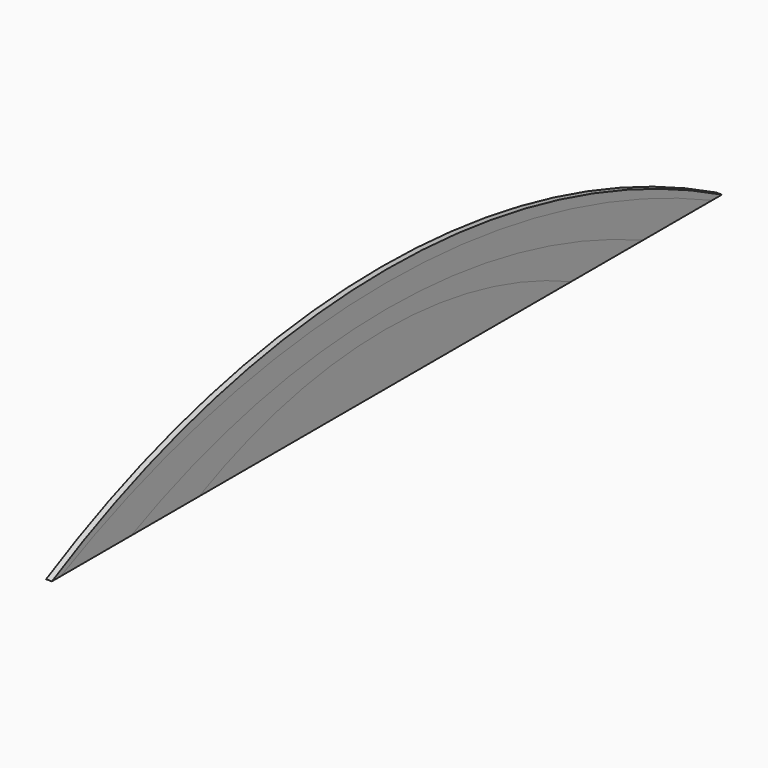
from build123d import *

# Parameters (mm, degrees)
F1_DEPTH = 6.35
F3_DEPTH = 6.35
F5_DEPTH = 6.35
F7_DEPTH = 6.35


with BuildPart() as f1:
    # F0 (on Right) → F1 (new body, symmetric)
    with BuildSketch(Plane.YZ):
        with BuildLine():
            ThreePointArc((916.3579663121, 0), (1.9579663121, 228.6), (-912.4420336879, 0))
            Line((-912.4420336879, 0), (916.3579663121, 0))
        make_face()
    extrude(amount=F1_DEPTH, both=True)


with BuildPart() as f3:
    # F2 (on Right) → F3 (new body, symmetric)
    with BuildSketch(Plane.YZ):
        with BuildLine():
            ThreePointArc((889.2136817136, 0), (0.2136817136, 203.2), (-888.7863182864, 0))
            Line((-888.7863182864, 0), (889.2136817136, 0))
        make_face()
    extrude(amount=F3_DEPTH, both=True)


with BuildPart() as f5:
    # F4 (on Right) → F5 (new body, symmetric)
    with BuildSketch(Plane.YZ):
        with BuildLine():
            ThreePointArc((700.7628045471, 0), (2.2628045471, 152.4), (-696.2371954529, 0))
            Line((-696.2371954529, 0), (700.7628045471, 0))
        make_face()
    extrude(amount=F5_DEPTH, both=True)


with BuildPart() as f7:
    # F6 (on Right) → F7 (new body, symmetric)
    with BuildSketch(Plane.YZ):
        with BuildLine():
            ThreePointArc((504.7643018254, 0), (-3.2356981746, 114.3), (-511.2356981746, 0))
            Line((-511.2356981746, 0), (504.7643018254, 0))
        make_face()
    extrude(amount=F7_DEPTH, both=True)


solid = Compound([f1.part, f3.part, f5.part, f7.part])
